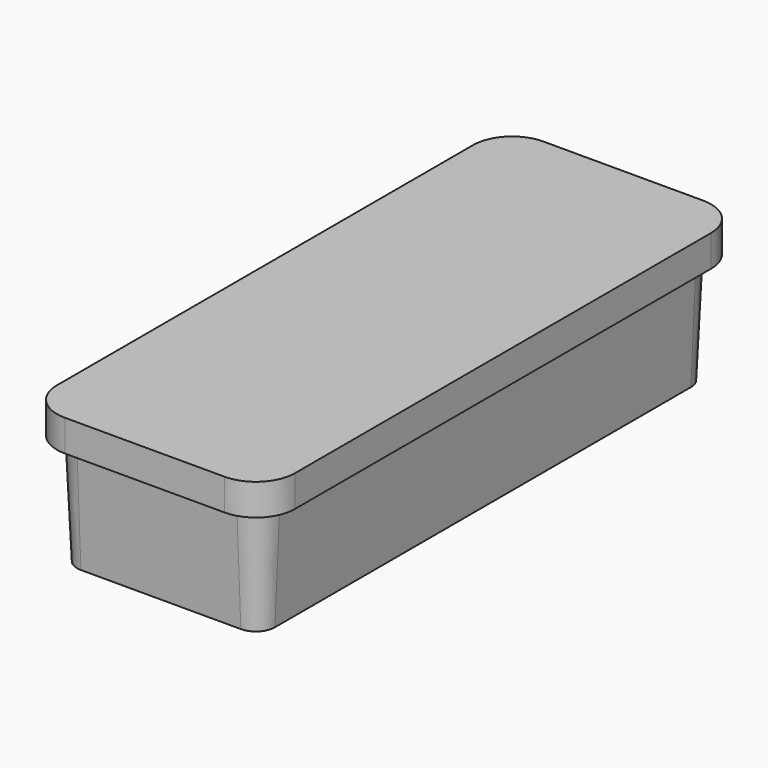
from build123d import *

# Parameters (mm, degrees)
F5_DEPTH = 25


with BuildPart() as f3:
    # F2 (on offset) → F3 section 0
    with BuildSketch(Plane.XY.offset(88)):
        with BuildLine():
            Line((-82.5, 206.5), (-82.5, -206.5))
            ThreePointArc((-82.5, -206.5), (-76.9350288425, -219.9350288425), (-63.5, -225.5))
            Line((-63.5, -225.5), (63.5, -225.5))
            ThreePointArc((63.5, -225.5), (76.9350288425, -219.9350288425), (82.5, -206.5))
            Line((82.5, -206.5), (82.5, 206.5))
            ThreePointArc((82.5, 206.5), (76.9350288425, 219.9350288425), (63.5, 225.5))
            Line((63.5, 225.5), (-63.5, 225.5))
            ThreePointArc((-63.5, 225.5), (-76.9350288425, 219.9350288425), (-82.5, 206.5))
        make_face()
    # F0 (on Top) → F3 section 1
    with BuildSketch(Plane.XY):
        with BuildLine():
            ThreePointArc((78.5, 206.5), (74.1066017178, 217.1066017178), (63.5, 221.5))
            Line((63.5, 221.5), (-63.5, 221.5))
            ThreePointArc((-63.5, 221.5), (-74.1066017178, 217.1066017178), (-78.5, 206.5))
            Line((-78.5, 206.5), (-78.5, -206.5))
            ThreePointArc((-78.5, -206.5), (-74.1066017178, -217.1066017178), (-63.5, -221.5))
            Line((-63.5, -221.5), (63.5, -221.5))
            ThreePointArc((63.5, -221.5), (74.1066017178, -217.1066017178), (78.5, -206.5))
            Line((78.5, -206.5), (78.5, 206.5))
        make_face()
    loft()

    # F4 (on face) → F5 (join)
    with BuildSketch(Plane.XY.offset(88)):
        with BuildLine():
            Line((63.5, 237.5), (-63.5, 237.5))
            ThreePointArc((-63.5, 237.5), (-85.4203102168, 228.4203102168), (-94.5, 206.5))
            Line((-94.5, 206.5), (-94.5, -206.5))
            ThreePointArc((-94.5, -206.5), (-85.4203102168, -228.4203102168), (-63.5, -237.5))
            Line((-63.5, -237.5), (63.5, -237.5))
            ThreePointArc((63.5, -237.5), (85.4203102168, -228.4203102168), (94.5, -206.5))
            Line((94.5, -206.5), (94.5, 206.5))
            ThreePointArc((94.5, 206.5), (85.4203102168, 228.4203102168), (63.5, 237.5))
        make_face()
    extrude(amount=F5_DEPTH)


solid = f3.part
